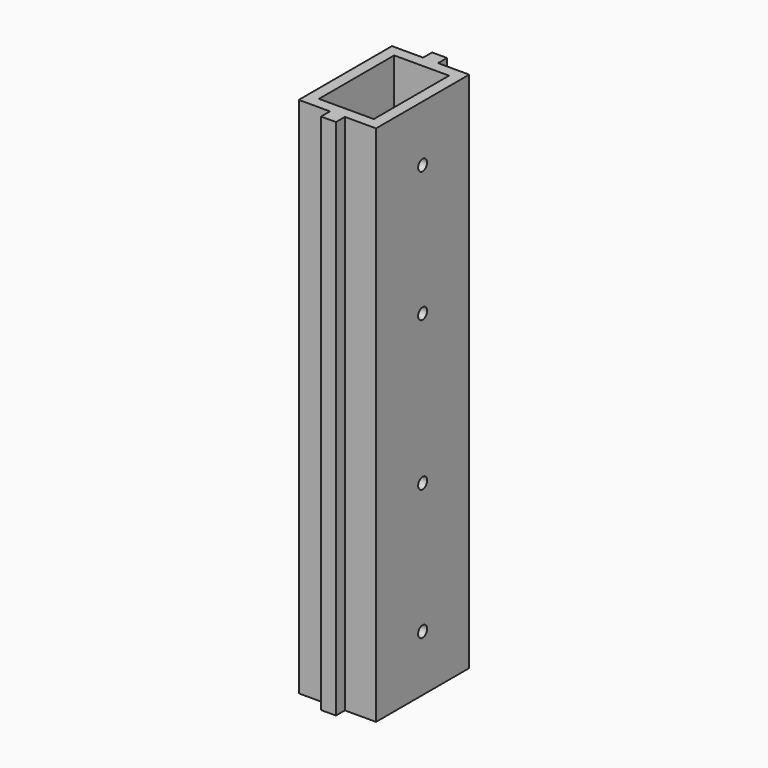
from build123d import *

# Parameters (mm, degrees)
F0_W     = 14.7
F0_H     = 25.2
F1_DEPTH = 140
F3_D     = 3


with BuildPart() as f1:
    # F0 (on Top) → F1 (new body)
    with BuildSketch(Plane.XY):
        Polygon((2, -15.6), (10.35, -15.6), (10.35, 15.6), (2, 15.6), (-2, 15.6), (-10.35, 15.6), (-10.35, -15.6), (-2, -15.6), align=None)
        Rectangle(F0_W, F0_H, mode=Mode.SUBTRACT)
        Polygon((2, -18.6), (2, -15.6), (-2, -15.6), (-2, -18.6), (0, -18.6), align=None)
        Polygon((-2, 15.6), (2, 15.6), (2, 18.6), (0, 18.6), (-2, 18.6), align=None)
    extrude(amount=F1_DEPTH)

    # F3 (through all)
    with Locations(Plane(origin=(-10.35, 0, 0), x_dir=(0, -1, 0), z_dir=(-1, 0, 0))):
        with Locations((0, 15), (0, 50), (0, 90), (0, 125)):
            Hole(F3_D / 2)


solid = f1.part
